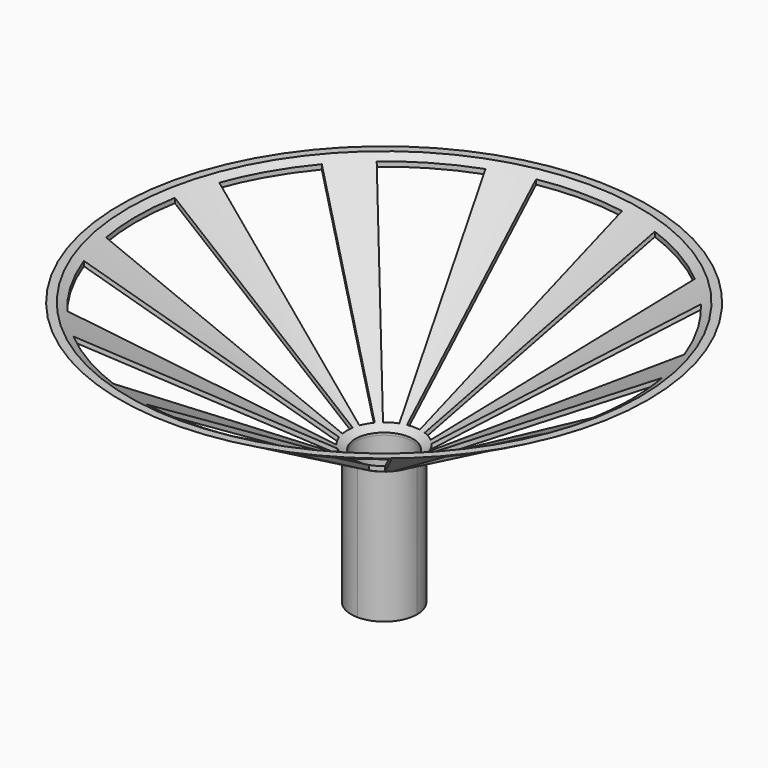
from build123d import *

# Parameters (mm, degrees)
F1_DEPTH = 50.8
F4_DEPTH = 152.4


with BuildPart() as f1:
    # F0 (on Top) → F1 (new body)
    with BuildSketch(Plane.XY):
        with BuildLine():
            ThreePointArc((12.7, 0), (-8.9802561211, 8.9802561211), (0, -12.7))
            ThreePointArc((0, -12.7), (8.9802561211, -8.9802561211), (12.7, 0))
        make_face()
        with BuildLine():
            ThreePointArc((0, -11.1125), (-7.8577241059, 7.8577241059), (11.1125, 0))
            ThreePointArc((11.1125, 0), (7.8577241059, -7.8577241059), (0, -11.1125))
        make_face(mode=Mode.SUBTRACT)
    extrude(amount=F1_DEPTH)

    # F2 (on Front) → F3 (revolve)
    with BuildSketch(Plane.XZ):
        Polygon((11.1125, 51.7212620251), (11.1125, 50.8), (12.7, 50.8), (101.6, 101.6), (98.4002914561, 101.6), align=None)
    revolve(axis=Axis((0, 0, 76.2), (0, 0, 1)))

    # F0 (on Top) → F4 (cut)
    with BuildSketch(Plane.XY):
        with BuildLine():
            Line((72.9657332071, 61.2255198226), (10.9448599811, 9.1838279734))
            ThreePointArc((10.9448599811, 9.1838279734), (12.3733379566, 7.14375), (13.4258583195, 4.8866127978))
            Line((13.4258583195, 4.8866127978), (89.5057221299, 32.5774186518))
            ThreePointArc((89.5057221299, 32.5774186518), (82.4889197105, 47.625), (72.9657332071, 61.2255198226))
        make_face()
        with BuildLine():
            Line((93.8029384744, 16.5399889228), (14.0704407712, 2.4809983384))
            ThreePointArc((14.0704407712, 2.4809983384), (14.2875, 0), (14.0704407712, -2.4809983384))
            Line((14.0704407712, -2.4809983384), (93.8029384744, -16.5399889228))
            ThreePointArc((93.8029384744, -16.5399889228), (95.25, 0), (93.8029384744, 16.5399889228))
        make_face()
        with BuildLine():
            Line((32.5774186518, 89.5057221299), (4.8866127978, 13.4258583195))
            ThreePointArc((4.8866127978, 13.4258583195), (7.14375, 12.3733379566), (9.1838279734, 10.9448599811))
            Line((9.1838279734, 10.9448599811), (61.2255198226, 72.9657332071))
            ThreePointArc((61.2255198226, 72.9657332071), (47.625, 82.4889197105), (32.5774186518, 89.5057221299))
        make_face()
        with BuildLine():
            Line((0, -95.25), (0, -14.2875))
            ThreePointArc((0, -14.2875), (-1.2452376745, -14.233131749), (-2.4809983384, -14.0704407712))
            Line((-2.4809983384, -14.0704407712), (-16.5399889228, -93.8029384744))
            ThreePointArc((-16.5399889228, -93.8029384744), (-8.3015844967, -94.8875449932), (0, -95.25))
        make_face()
        with BuildLine():
            ThreePointArc((2.4809983384, -14.0704407712), (1.2452376745, -14.233131749), (0, -14.2875))
            Line((0, -14.2875), (0, -95.25))
            ThreePointArc((0, -95.25), (8.3015844967, -94.8875449932), (16.5399889228, -93.8029384744))
            Line((16.5399889228, -93.8029384744), (2.4809983384, -14.0704407712))
        make_face()
        with BuildLine():
            Line((61.2255198226, -72.9657332071), (9.1838279734, -10.9448599811))
            ThreePointArc((9.1838279734, -10.9448599811), (7.14375, -12.3733379566), (4.8866127978, -13.4258583195))
            Line((4.8866127978, -13.4258583195), (32.5774186518, -89.5057221299))
            ThreePointArc((32.5774186518, -89.5057221299), (47.625, -82.4889197105), (61.2255198226, -72.9657332071))
        make_face()
        with BuildLine():
            Line((89.5057221299, -32.5774186518), (13.4258583195, -4.8866127978))
            ThreePointArc((13.4258583195, -4.8866127978), (12.3733379566, -7.14375), (10.9448599811, -9.1838279734))
            Line((10.9448599811, -9.1838279734), (72.9657332071, -61.2255198226))
            ThreePointArc((72.9657332071, -61.2255198226), (82.4889197105, -47.625), (89.5057221299, -32.5774186518))
        make_face()
        with BuildLine():
            Line((-32.5774186518, -89.5057221299), (-4.8866127978, -13.4258583195))
            ThreePointArc((-4.8866127978, -13.4258583195), (-7.14375, -12.3733379566), (-9.1838279734, -10.9448599811))
            Line((-9.1838279734, -10.9448599811), (-61.2255198226, -72.9657332071))
            ThreePointArc((-61.2255198226, -72.9657332071), (-47.625, -82.4889197105), (-32.5774186518, -89.5057221299))
        make_face()
        with BuildLine():
            Line((-72.9657332071, -61.2255198226), (-10.9448599811, -9.1838279734))
            ThreePointArc((-10.9448599811, -9.1838279734), (-12.3733379566, -7.14375), (-13.4258583195, -4.8866127978))
            Line((-13.4258583195, -4.8866127978), (-89.5057221299, -32.5774186518))
            ThreePointArc((-89.5057221299, -32.5774186518), (-82.4889197105, -47.625), (-72.9657332071, -61.2255198226))
        make_face()
        with BuildLine():
            Line((-93.8029384744, -16.5399889228), (-14.0704407712, -2.4809983384))
            ThreePointArc((-14.0704407712, -2.4809983384), (-14.2875, 0), (-14.0704407712, 2.4809983384))
            Line((-14.0704407712, 2.4809983384), (-93.8029384744, 16.5399889228))
            ThreePointArc((-93.8029384744, 16.5399889228), (-95.25, 0), (-93.8029384744, -16.5399889228))
        make_face()
        with BuildLine():
            Line((-89.5057221299, 32.5774186518), (-13.4258583195, 4.8866127978))
            ThreePointArc((-13.4258583195, 4.8866127978), (-12.3733379566, 7.14375), (-10.9448599811, 9.1838279734))
            Line((-10.9448599811, 9.1838279734), (-72.9657332071, 61.2255198226))
            ThreePointArc((-72.9657332071, 61.2255198226), (-82.4889197105, 47.625), (-89.5057221299, 32.5774186518))
        make_face()
        with BuildLine():
            Line((-16.5399889228, 93.8029384744), (-2.4809983384, 14.0704407712))
            ThreePointArc((-2.4809983384, 14.0704407712), (0, 14.2875), (2.4809983384, 14.0704407712))
            Line((2.4809983384, 14.0704407712), (16.5399889228, 93.8029384744))
            ThreePointArc((16.5399889228, 93.8029384744), (0, 95.25), (-16.5399889228, 93.8029384744))
        make_face()
        with BuildLine():
            Line((-61.2255198226, 72.9657332071), (-9.1838279734, 10.9448599811))
            ThreePointArc((-9.1838279734, 10.9448599811), (-7.14375, 12.3733379566), (-4.8866127978, 13.4258583195))
            Line((-4.8866127978, 13.4258583195), (-32.5774186518, 89.5057221299))
            ThreePointArc((-32.5774186518, 89.5057221299), (-47.625, 82.4889197105), (-61.2255198226, 72.9657332071))
        make_face()
    extrude(amount=F4_DEPTH, mode=Mode.SUBTRACT)


solid = f1.part
